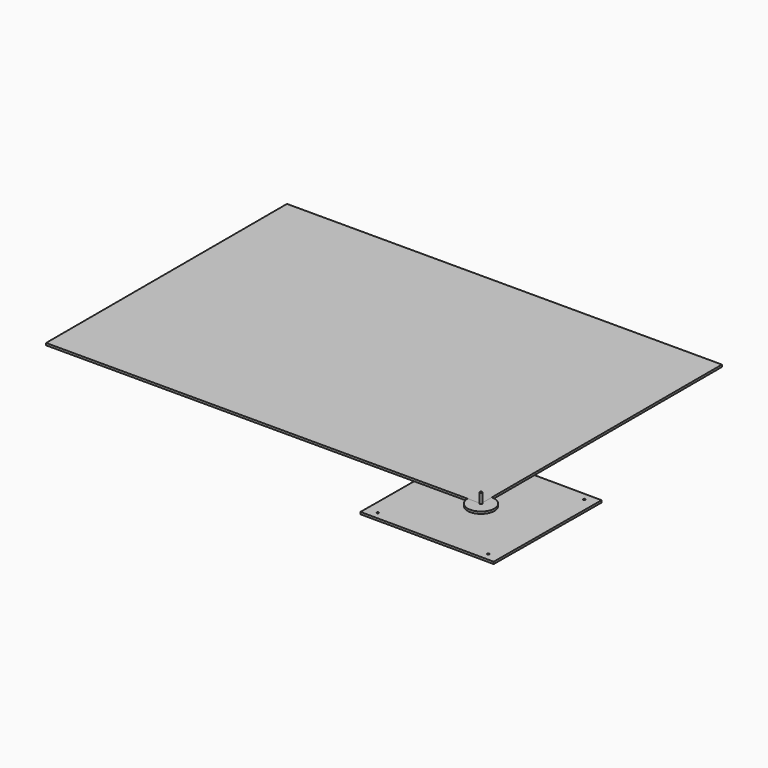
from build123d import *

# Parameters (mm, degrees)
F0_R     = 1.6
F1_DEPTH = 3.2
F2_R     = 20
F2_R_2   = 1.6
F3_DEPTH = 3.2
F4_R     = 1.6
F5_DEPTH = 15
F6_W     = 650
F6_H     = 450
F7_DEPTH = 3.2


with BuildPart() as f1:
    # F0 (on Top) → F1 (new body)
    with BuildSketch(Plane.XY):
        Polygon((100.6032389982, 99.3930998765), (-99.3930998765, 100.6032389982), (-100.6032389982, -99.3930998765), (99.3930998765, -100.6032389982), align=None)
        with Locations((-83.5366163231, -88.4339863755)):
            Circle(F0_R, mode=Mode.SUBTRACT)
        Circle(F0_R, mode=Mode.SUBTRACT)
        with Locations((82.3932280159, -89.4379957349)):
            Circle(F0_R, mode=Mode.SUBTRACT)
        with Locations((-82.3932280159, 89.4379957349)):
            Circle(F0_R, mode=Mode.SUBTRACT)
        with Locations((83.6033671376, 88.4335824792)):
            Circle(F0_R, mode=Mode.SUBTRACT)
    extrude(amount=F1_DEPTH)


with BuildPart() as f3:
    # F2 (on face) → F3 (new body)
    with BuildSketch(Plane.XY.offset(3.2)):
        Circle(F2_R)
        Circle(F2_R_2, mode=Mode.SUBTRACT)
    extrude(amount=F3_DEPTH)


with BuildPart() as f5:
    # F4 (on face) → F5 (new body)
    with BuildSketch(Plane.XY.offset(6.4)):
        Circle(F4_R)
    extrude(amount=F5_DEPTH)


with BuildPart() as f7:
    # F6 (on face) → F7 (new body)
    with BuildSketch(Plane.XY.offset(3.2)):
        with Locations((-325, 225)):
            Rectangle(F6_W, F6_H)
    extrude(amount=F7_DEPTH)


solid = Compound([f1.part, f3.part, f5.part, f7.part])
